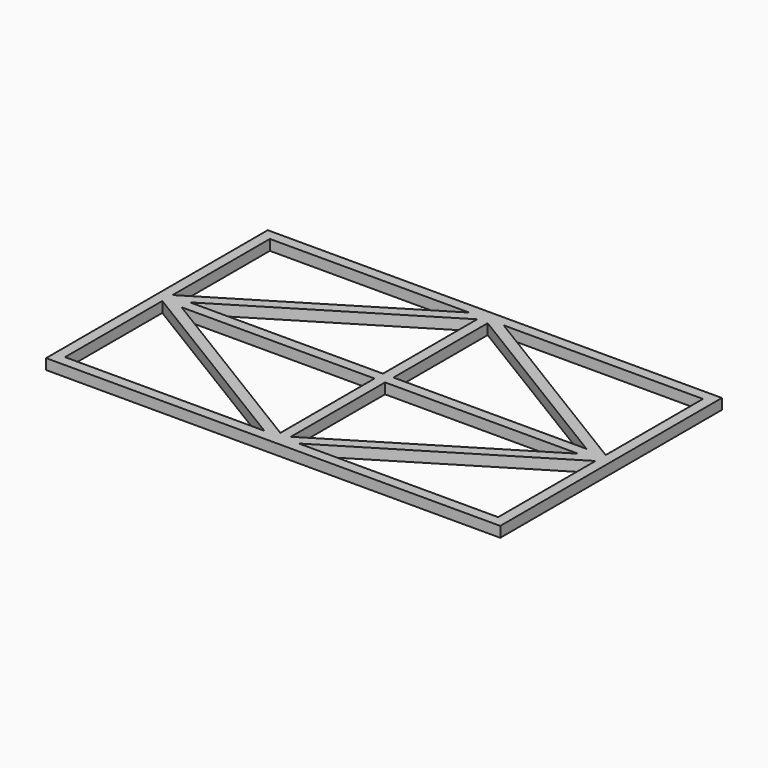
from build123d import *

# Parameters (mm, degrees)
F0_W     = 1.5
F0_H     = 1.5
F1_DEPTH = 3


with BuildPart() as f1:
    # F0 (on Top) → F1 (new body)
    with BuildSketch(Plane.XY):
        Polygon((-30.1018770039, 45.5732905269), (-93.3518770039, 45.5732905269), (-93.3518770039, 7.5732905269), (-90.8930162444, 7.5732905269), (-90.3518770039, 7.903406357), (-90.3518770039, 42.5732905269), (-33.5195985229, 42.5732905269), (-30.1018770039, 44.6582326118), align=None)
        Polygon((-30.1018770039, 42.5732905269), (-33.5195985229, 42.5732905269), (-90.3518770039, 7.903406357), (-90.3518770039, 7.5732905269), (-85.132462023, 7.5732905269), (-30.1018770039, 41.1440721215), align=None)
        Polygon((-28.6018770039, 45.5732905269), (-30.1018770039, 45.5732905269), (-30.1018770039, 44.6582326118), align=None)
        Polygon((-28.6018770039, 42.5732905269), (-28.6018770039, 45.5732905269), (-30.1018770039, 44.6582326118), (-30.1018770039, 42.5732905269), align=None)
        Polygon((-30.1018770039, 42.5732905269), (-30.1018770039, 44.6582326118), (-33.5195985229, 42.5732905269), align=None)
        Polygon((-28.6018770039, 42.0591300366), (-28.6018770039, 42.5732905269), (-30.1018770039, 42.5732905269), (-30.1018770039, 41.1440721215), align=None)
        Polygon((-27.1018770039, 42.5732905269), (-28.6018770039, 42.5732905269), (-28.6018770039, 42.0591300366), (-27.1018770039, 41.1440721215), align=None)
        Polygon((-27.1018770039, 44.6582326118), (-28.6018770039, 45.5732905269), (-28.6018770039, 42.5732905269), (-27.1018770039, 42.5732905269), align=None)
        Polygon((-27.1018770039, 45.5732905269), (-28.6018770039, 45.5732905269), (-27.1018770039, 44.6582326118), align=None)
        Polygon((36.1481229961, 45.5732905269), (-27.1018770039, 45.5732905269), (-27.1018770039, 44.6582326118), (-23.6841554849, 42.5732905269), (33.1481229961, 42.5732905269), (33.1481229961, 7.903406357), (33.6892622366, 7.5732905269), (36.1481229961, 7.5732905269), align=None)
        Polygon((-23.6841554849, 42.5732905269), (-27.1018770039, 44.6582326118), (-27.1018770039, 42.5732905269), align=None)
        Polygon((-23.6841554849, 42.5732905269), (-27.1018770039, 42.5732905269), (-27.1018770039, 41.1440721215), (27.9287080151, 7.5732905269), (33.1481229961, 7.5732905269), (33.1481229961, 7.903406357), align=None)
        Polygon((-28.6018770039, 7.5732905269), (-28.6018770039, 42.0591300366), (-30.1018770039, 41.1440721215), (-30.1018770039, 7.5732905269), align=None)
        Polygon((-27.1018770039, 41.1440721215), (-28.6018770039, 42.0591300366), (-28.6018770039, 7.5732905269), (-27.1018770039, 7.5732905269), align=None)
        Polygon((-85.132462023, 7.5732905269), (-87.5913227825, 6.0732905269), (-30.1018770039, 6.0732905269), (-30.1018770039, 7.5732905269), align=None)
        Polygon((-30.1018770039, 6.0732905269), (-87.5913227825, 6.0732905269), (-85.132462023, 4.5732905269), (-30.1018770039, 4.5732905269), align=None)
        with Locations((-29.3518770039, 6.8232905269)):
            Rectangle(F0_W, F0_H)
        with Locations((-27.8518770039, 6.8232905269)):
            Rectangle(F0_W, F0_H)
        with Locations((-27.8518770039, 5.3232905269)):
            Rectangle(F0_W, F0_H)
        with Locations((-29.3518770039, 5.3232905269)):
            Rectangle(F0_W, F0_H)
        Polygon((27.9287080151, 7.5732905269), (-27.1018770039, 7.5732905269), (-27.1018770039, 6.0732905269), (30.3875687746, 6.0732905269), align=None)
        Polygon((30.3875687746, 6.0732905269), (-27.1018770039, 6.0732905269), (-27.1018770039, 4.5732905269), (27.9287080151, 4.5732905269), align=None)
        Polygon((-27.1018770039, 4.5732905269), (-28.6018770039, 4.5732905269), (-28.6018770039, -29.9125489828), (-27.1018770039, -28.9974910678), align=None)
        Polygon((-28.6018770039, 4.5732905269), (-30.1018770039, 4.5732905269), (-30.1018770039, -28.9974910678), (-28.6018770039, -29.9125489828), align=None)
        Polygon((33.1481229961, 7.5732905269), (27.9287080151, 7.5732905269), (30.3875687746, 6.0732905269), (33.1481229961, 6.0732905269), align=None)
        Polygon((33.6892622366, 7.5732905269), (33.1481229961, 7.903406357), (33.1481229961, 7.5732905269), align=None)
        Polygon((33.1481229961, 6.0732905269), (36.1481229961, 6.0732905269), (33.6892622366, 7.5732905269), (33.1481229961, 7.5732905269), align=None)
        Polygon((36.1481229961, 6.0732905269), (36.1481229961, 7.5732905269), (33.6892622366, 7.5732905269), align=None)
        Polygon((33.6892622366, 4.5732905269), (36.1481229961, 6.0732905269), (33.1481229961, 6.0732905269), (33.1481229961, 4.5732905269), align=None)
        Polygon((36.1481229961, 4.5732905269), (36.1481229961, 6.0732905269), (33.6892622366, 4.5732905269), align=None)
        Polygon((33.1481229961, 4.5732905269), (33.1481229961, 6.0732905269), (30.3875687746, 6.0732905269), (27.9287080151, 4.5732905269), align=None)
        Polygon((-23.6841554849, -30.4267094731), (33.1481229961, 4.2431746968), (33.1481229961, 4.5732905269), (27.9287080151, 4.5732905269), (-27.1018770039, -28.9974910678), (-27.1018770039, -30.4267094731), align=None)
        Polygon((33.1481229961, 4.2431746968), (33.6892622366, 4.5732905269), (33.1481229961, 4.5732905269), align=None)
        Polygon((36.1481229961, -33.4267094731), (36.1481229961, 4.5732905269), (33.6892622366, 4.5732905269), (33.1481229961, 4.2431746968), (33.1481229961, -30.4267094731), (-23.6841554849, -30.4267094731), (-27.1018770039, -32.5116515581), (-27.1018770039, -33.4267094731), align=None)
        Polygon((-27.1018770039, -32.5116515581), (-28.6018770039, -33.4267094731), (-27.1018770039, -33.4267094731), align=None)
        Polygon((-28.6018770039, -30.4267094731), (-28.6018770039, -33.4267094731), (-27.1018770039, -32.5116515581), (-27.1018770039, -30.4267094731), align=None)
        Polygon((-27.1018770039, -30.4267094731), (-27.1018770039, -32.5116515581), (-23.6841554849, -30.4267094731), align=None)
        Polygon((-28.6018770039, -29.9125489828), (-28.6018770039, -30.4267094731), (-27.1018770039, -30.4267094731), (-27.1018770039, -28.9974910678), align=None)
        Polygon((-30.1018770039, -28.9974910678), (-30.1018770039, -30.4267094731), (-28.6018770039, -30.4267094731), (-28.6018770039, -29.9125489828), align=None)
        Polygon((-30.1018770039, -32.5116515581), (-28.6018770039, -33.4267094731), (-28.6018770039, -30.4267094731), (-30.1018770039, -30.4267094731), align=None)
        Polygon((-30.1018770039, -32.5116515581), (-30.1018770039, -33.4267094731), (-28.6018770039, -33.4267094731), align=None)
        Polygon((-90.8930162444, 4.5732905269), (-93.3518770039, 4.5732905269), (-93.3518770039, -33.4267094731), (-30.1018770039, -33.4267094731), (-30.1018770039, -32.5116515581), (-33.5195985229, -30.4267094731), (-90.3518770039, -30.4267094731), (-90.3518770039, 4.2431746968), align=None)
        Polygon((-30.1018770039, -30.4267094731), (-33.5195985229, -30.4267094731), (-30.1018770039, -32.5116515581), align=None)
        Polygon((-90.3518770039, 4.5732905269), (-90.3518770039, 4.2431746968), (-33.5195985229, -30.4267094731), (-30.1018770039, -30.4267094731), (-30.1018770039, -28.9974910678), (-85.132462023, 4.5732905269), align=None)
        Polygon((-90.3518770039, 7.903406357), (-90.8930162444, 7.5732905269), (-90.3518770039, 7.5732905269), align=None)
        Polygon((-90.3518770039, 4.5732905269), (-90.8930162444, 4.5732905269), (-90.3518770039, 4.2431746968), align=None)
        Polygon((-87.5913227825, 6.0732905269), (-90.3518770039, 6.0732905269), (-90.3518770039, 4.5732905269), (-85.132462023, 4.5732905269), align=None)
        Polygon((-90.3518770039, 7.5732905269), (-90.3518770039, 6.0732905269), (-87.5913227825, 6.0732905269), (-85.132462023, 7.5732905269), align=None)
        Polygon((-90.8930162444, 7.5732905269), (-93.3518770039, 6.0732905269), (-90.3518770039, 6.0732905269), (-90.3518770039, 7.5732905269), align=None)
        Polygon((-90.3518770039, 6.0732905269), (-93.3518770039, 6.0732905269), (-90.8930162444, 4.5732905269), (-90.3518770039, 4.5732905269), align=None)
        Polygon((-90.8930162444, 4.5732905269), (-93.3518770039, 6.0732905269), (-93.3518770039, 4.5732905269), align=None)
        Polygon((-90.8930162444, 7.5732905269), (-93.3518770039, 7.5732905269), (-93.3518770039, 6.0732905269), align=None)
    extrude(amount=F1_DEPTH)


solid = f1.part
